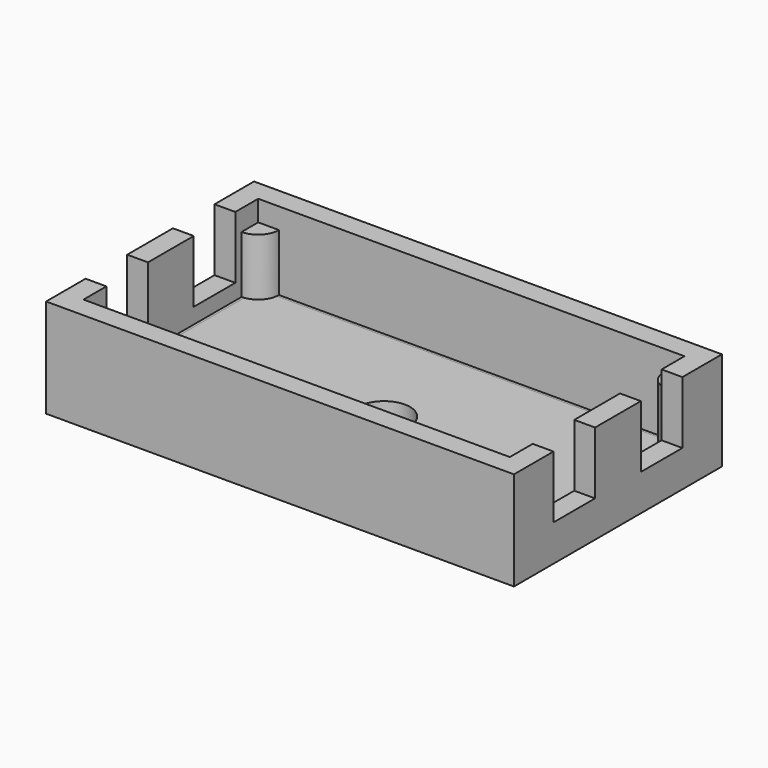
from build123d import *

# Parameters (mm, degrees)
SKETCH_W        = 45
SKETCH_H        = 25
PAD_DEPTH       = 9.5
SKETCH001_W     = 41
SKETCH001_H     = 21
POCKET_DEPTH    = 7.5
SKETCH002_R     = 2.5
POCKET001_DEPTH = 2.001
SKETCH003_W     = 2
SKETCH003_H     = 5
POCKET002_DEPTH = 6
PAD001_DEPTH    = 5.5
PAD002_DEPTH    = 2
SKETCH006_R     = 2.5
POCKET003_DEPTH = 2.001


with BuildPart() as body:
    # Sketch → Pad (new body)
    with BuildSketch(Plane.XY):
        Rectangle(SKETCH_W, SKETCH_H)
    extrude(amount=PAD_DEPTH)

    # Sketch001 (on Face6 of Pad) → Pocket (cut)
    with BuildSketch(Plane.XY.offset(9.5)):
        Rectangle(SKETCH001_W, SKETCH001_H)
    extrude(amount=-POCKET_DEPTH, mode=Mode.SUBTRACT)

    # Sketch002 (on Face11 of Pocket) → Pocket001 (cut, through all)
    with BuildSketch(Plane.XY.offset(2)):
        Circle(SKETCH002_R)
    extrude(amount=-POCKET001_DEPTH, mode=Mode.SUBTRACT)

    # Sketch003 (on Face5 of Pocket001) → Pocket002 (cut)
    with BuildSketch(Plane.XY.offset(9.5)):
        with Locations((-21.5, 5.25)):
            Rectangle(SKETCH003_W, SKETCH003_H)
        with Locations((-21.5, -5.25)):
            Rectangle(SKETCH003_W, SKETCH003_H)
        with Locations((21.5, 5.25)):
            Rectangle(SKETCH003_W, SKETCH003_H)
        with Locations((21.5, -5.25)):
            Rectangle(SKETCH003_W, SKETCH003_H)
    extrude(amount=-POCKET002_DEPTH, mode=Mode.SUBTRACT)

    # Sketch004 (on Face27 of Pocket002) → Pad001 (join)
    with BuildSketch(Plane.XY.offset(2)):
        with BuildLine():
            ThreePointArc((-20.5, 8.5), (-19.085786, 9.085786), (-18.5, 10.5))
            Line((-18.5, 10.5), (-20.5, 10.5))
            Line((-20.5, 10.5), (-20.5, 8.5))
        make_face()
        with BuildLine():
            ThreePointArc((-18.5, -10.5), (-19.085786, -9.085786), (-20.5, -8.5))
            Line((-20.5, -8.5), (-20.5, -10.5))
            Line((-20.5, -10.5), (-18.5, -10.5))
        make_face()
        with BuildLine():
            ThreePointArc((20.5, -8.5), (19.085786, -9.085786), (18.5, -10.5))
            Line((18.5, -10.5), (20.5, -10.5))
            Line((20.5, -10.5), (20.5, -8.5))
        make_face()
        with BuildLine():
            ThreePointArc((18.5, 10.5), (19.085786, 9.085786), (20.5, 8.5))
            Line((20.5, 8.5), (20.5, 10.5))
            Line((20.5, 10.5), (18.5, 10.5))
        make_face()
    extrude(amount=PAD001_DEPTH)


with BuildPart() as body001:
    # Sketch005 → Pad002 (new body)
    with BuildSketch(Plane.XY):
        with BuildLine():
            Line((-20.25, 10.25), (20.25, 10.25))
            Line((20.25, 10.25), (20.25, -10.25))
            Line((20.25, -10.25), (17.5, -10.25))
            ThreePointArc((17.5, -10.25), (15, -7.75), (12.5, -10.25))
            Line((12.5, -10.25), (-20.25, -10.25))
            Line((-20.25, -10.25), (-20.25, 10.25))
        make_face()
    extrude(amount=PAD002_DEPTH)

    # Sketch006 (on Face8 of Pad002) → Pocket003 (cut, through all)
    with BuildSketch(Plane.XY.offset(2)):
        Circle(SKETCH006_R)
    extrude(amount=-POCKET003_DEPTH, mode=Mode.SUBTRACT)


solid = Compound([body.part, body001.part])
